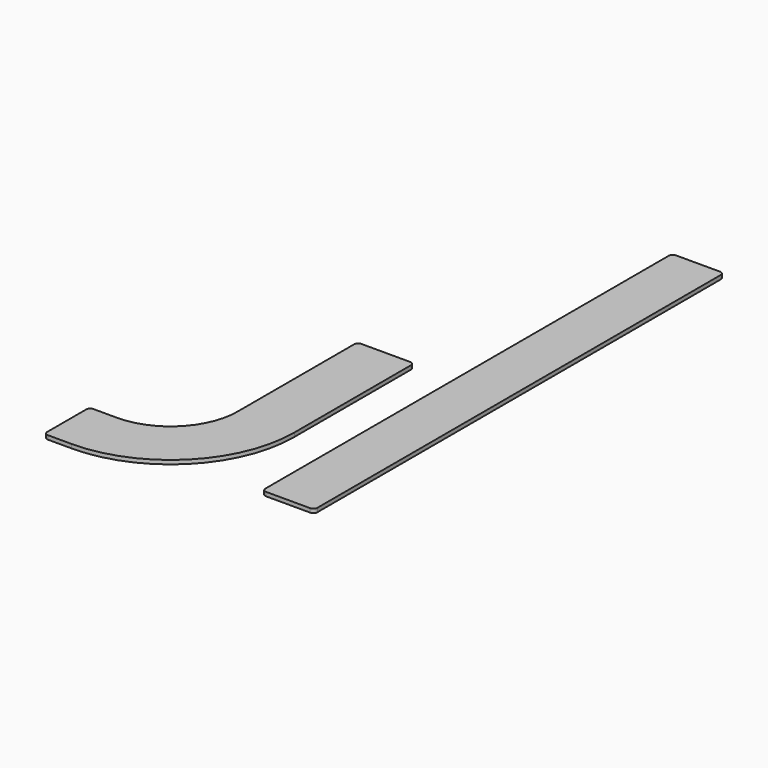
from build123d import *

# Parameters (mm, degrees)
F1_DEPTH = 25
F2_R     = 25
F3_W     = 330
F3_H     = 3250
F4_DEPTH = 25
F5_R     = 25


with BuildPart() as f1:
    # F0 (on Top) → F1 (new body)
    with BuildSketch(Plane.XY):
        with BuildLine():
            Line((360, 950), (0, 950))
            Line((0, 950), (0, 0))
            ThreePointArc((0, 0), (-124.479618, -300.520382), (-425, -425))
            Line((-425, -425), (-600, -425))
            Line((-600, -425), (-600, -785))
            Line((-600, -785), (-425, -785))
            ThreePointArc((-425, -785), (130.078823, -555.078823), (360, 0))
            Line((360, 0), (360, 950))
        make_face()
    extrude(amount=F1_DEPTH)

    # F2
    f2_edges = [f1.edges().sort_by_distance(p)[0] for p in [
        (0, 950, 12.5),
        (360, 950, 12.5),
        (-600, -785, 12.5),
        (-600, -425, 12.5),
    ]]
    fillet(f2_edges, radius=F2_R)


with BuildPart() as f4:
    # F3 (on Top) → F4 (new body)
    with BuildSketch(Plane.XY):
        with Locations((788.623571, 1040.367525)):
            Rectangle(F3_W, F3_H)
    extrude(amount=F4_DEPTH)

    # F5
    f5_edges = [f4.edges().sort_by_distance(p)[0] for p in [
        (623.623571, 2665.367525, 12.5),
        (953.623571, 2665.367525, 12.5),
        (953.623571, -584.632475, 12.5),
        (623.623571, -584.632475, 12.5),
    ]]
    fillet(f5_edges, radius=F5_R)


solid = Compound([f1.part, f4.part])
